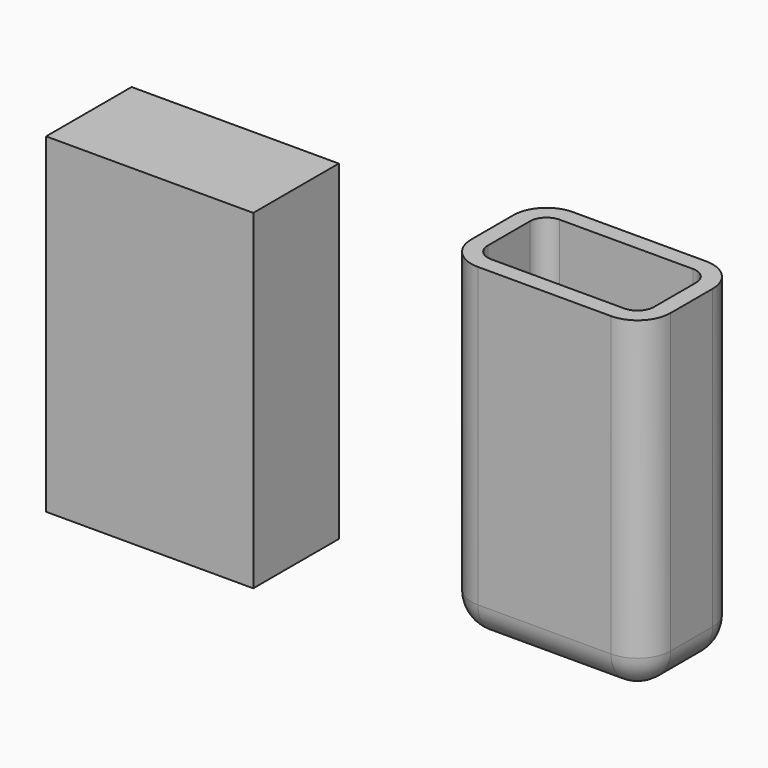
from build123d import *

# Parameters (mm, degrees)
F0_W     = 31.8417474627
F0_H     = 16.427910421
F1_DEPTH = 50.8
F0_W_2   = 30.6248702109
F0_H_2   = 18.2532332838
F2_R     = 5.08
F3_R     = 5.08
F4_T     = -2.54


with BuildPart() as f1:
    # F0 (on Top) → F1 (new body)
    with BuildSketch(Plane.XY):
        with Locations((-2.9407981783, 16.0222824197)):
            Rectangle(F0_W, F0_H)
    extrude(amount=F1_DEPTH)


with BuildPart() as f1b:
    # F0 (on Top) → F1, piece 2 (new body)
    with BuildSketch(Plane.XY):
        with Locations((53.0357789248, 22.8165406734)):
            Rectangle(F0_W_2, F0_H_2)
    extrude(amount=F1_DEPTH)

    # F2
    f2_edges = [f1b.edges().sort_by_distance(p)[0] for p in [
        (68.348214, 13.689924, 25.4),
        (68.348214, 31.943157, 25.4),
        (37.723344, 13.689924, 25.4),
        (37.723344, 31.943157, 25.4),
    ]]
    fillet(f2_edges, radius=F2_R)

    # F3
    f3_edges = [f1b.edges().sort_by_distance(p)[0] for p in [
        (53.035779, 31.943157, 0),
    ]]
    fillet(f3_edges, radius=F3_R)

    # F4
    f4_openings = [f1b.faces().sort_by_distance(p)[0] for p in [
        (53.035779, 22.816541, 50.8),
    ]]
    offset(amount=F4_T, openings=f4_openings)


solid = Compound([f1.part, f1b.part])
